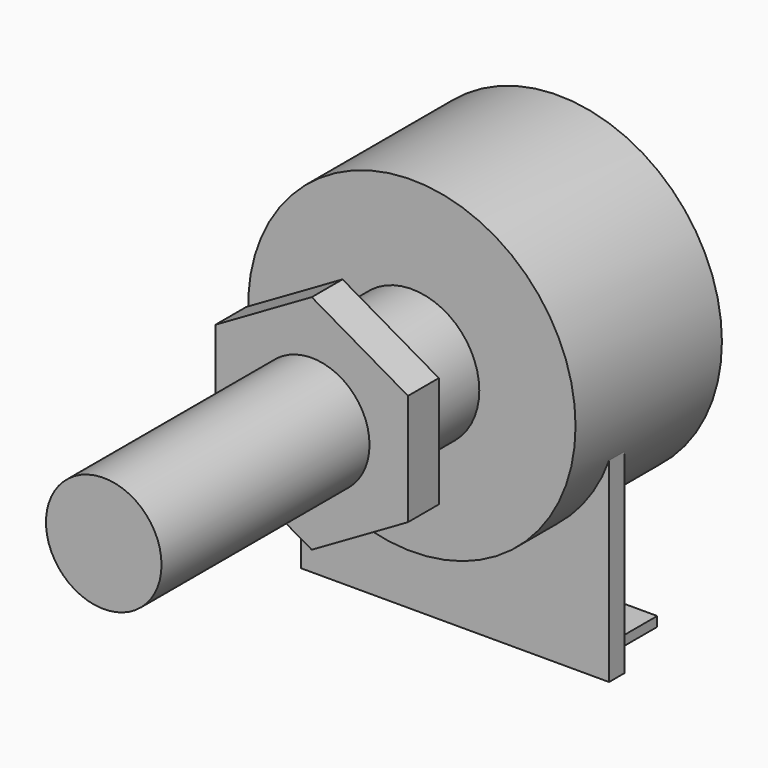
from build123d import *

# Parameters (mm, degrees)
F0_R      = 8.5
F1_DEPTH  = 9.5
F3_W      = 16
F3_H      = 14
F4_DEPTH  = 1
F5_W      = 3
F5_H      = 0.5
F6_DEPTH  = 4
F7_R      = 3.5
F8_DEPTH  = 6.5
F9_R      = 3
F10_DEPTH = 13.5
F12_DEPTH = 2


with BuildPart() as f1:
    # F0 (on Front) → F1 (new body)
    with BuildSketch(Plane.XZ):
        Circle(F0_R)
    extrude(amount=-F1_DEPTH)

    # F3 (on offset) → F4 (join)
    with BuildSketch(Plane.XZ.offset(-3.8)):
        with Locations((0, -6)):
            Rectangle(F3_W, F3_H)
    extrude(amount=F4_DEPTH)

    # F5 (on face) → F6 (join)
    with BuildSketch(Plane(origin=(0, 3.8, 0), x_dir=(-1, 0, 0), z_dir=(0, 1, 0))):
        with Locations((0, -12.75)):
            Rectangle(F5_W, F5_H)
        with Locations((-5, -12.75)):
            Rectangle(F5_W, F5_H)
        with Locations((5, -12.75)):
            Rectangle(F5_W, F5_H)
    extrude(amount=F6_DEPTH)

    # F7 (on face) → F8 (join)
    with BuildSketch(Plane.XZ):
        Circle(F7_R)
    extrude(amount=F8_DEPTH)

    # F9 (on face) → F10 (join)
    with BuildSketch(Plane.XZ.offset(6.5)):
        Circle(F9_R)
    extrude(amount=F10_DEPTH)

    # F11 (on face) → F12 (join)
    with BuildSketch(Plane.XZ.offset(6.5)):
        Polygon((5, -2.886751), (5, 2.886751), (0, 5.773503), (-5, 2.886751), (-5, -2.886751), (0, -5.773503), align=None)
    extrude(amount=-F12_DEPTH)


solid = f1.part
